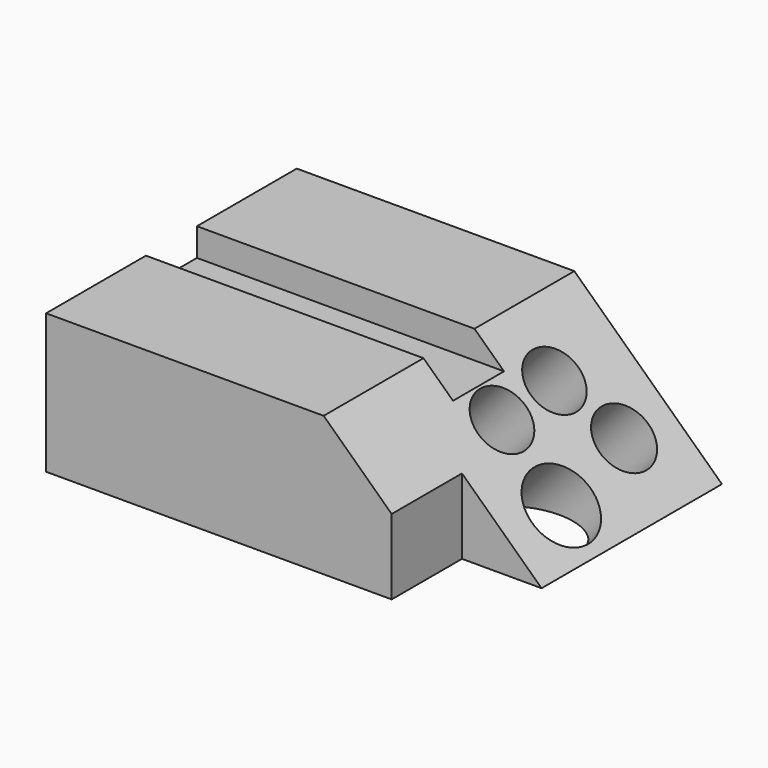
from build123d import *

# Parameters (mm, degrees)
F0_W      = 116.9611811638
F0_H      = 60.1601935923
F1_DEPTH  = 38.1
F3_DEPTH  = 31.75
F4_W      = 8.79971501
F4_H      = 17.4067560583
F4_W_2    = 75.7910068654
F5_DEPTH  = 7.62
F6_DEPTH  = 12.7
F7_DEPTH  = 12.7
F8_W      = 25.9574428201
F8_H      = 27.7897324413
F9_DEPTH  = 25.4
F10_R     = 8.1507716862
F11_DEPTH = 25.4
F12_R     = 8.1743450513
F13_DEPTH = 25.4
F14_R     = 10.0476315022
F15_DEPTH = 25.4
F16_R     = 8.34829694
F17_DEPTH = 25.4


with BuildPart() as f1:
    # F0 (on Top) → F1 (new body)
    with BuildSketch(Plane.XY):
        Rectangle(F0_W, F0_H)
    extrude(amount=F1_DEPTH)

    # F2 (on Front) → F3 (cut, symmetric)
    with BuildSketch(Plane.XZ):
        Polygon((13.2841020823, 43.822273612), (14.8110100999, 40.4630750418), (65.1989877224, -7.1764695458), (65.1989877224, 43.822273612), align=None)
    extrude(amount=F3_DEPTH, both=True, mode=Mode.SUBTRACT)

    # F4 (on face) → F5 (cut)
    with BuildSketch(Plane.XY.offset(38.1)):
        with Locations((21.7102737885, 0)):
            Rectangle(F4_W, F4_H)
        with Locations((-20.5850871492, 0)):
            Rectangle(F4_W_2, F4_H)
    extrude(amount=-F5_DEPTH, mode=Mode.SUBTRACT)

    # F6 (add): a face of the model
    f6_faces = [f1.faces().sort_by_distance(p)[0] for p in [
        (-9.8052950563, -30.0800967962, 17.7163922315),
    ]]
    extrude(f6_faces, amount=F6_DEPTH)

    # F7 (add): a face of the model
    f7_faces = [f1.faces().sort_by_distance(p)[0] for p in [
        (-9.8052950563, 30.0800967962, 17.7163922315),
    ]]
    extrude(f7_faces, amount=F7_DEPTH)

    # F8 (on Top) → F9 (cut)
    with BuildSketch(Plane.XY):
        with Locations((48.8610677421, -32.6758408919)):
            Rectangle(F8_W, F8_H)
    extrude(amount=F9_DEPTH, mode=Mode.SUBTRACT)

    # F10 (on face) → F11 (cut)
    with BuildSketch(Plane(origin=(27.1903243303, 0, 28.7589956151), x_dir=(0.7266466393, 0, -0.6870113985), z_dir=(0.6870113985, 0, 0.7266466393))):
        with Locations((4.6751173213, 19.3886086345)):
            Circle(F10_R)
    extrude(amount=-F11_DEPTH, mode=Mode.SUBTRACT)

    # F12 (on face) → F13 (cut)
    with BuildSketch(Plane(origin=(27.1903243303, 0, 28.7589956151), x_dir=(0.7266466393, 0, -0.6870113985), z_dir=(0.6870113985, 0, 0.7266466393))):
        with Locations((6.3146823086, 0)):
            Circle(F12_R)
    extrude(amount=-F13_DEPTH, mode=Mode.SUBTRACT)

    # F14 (on face) → F15 (cut)
    with BuildSketch(Plane(origin=(27.1903243303, 0, 28.7589956151), x_dir=(0.7266466393, 0, -0.6870113985), z_dir=(0.6870113985, 0, 0.7266466393))):
        with Locations((28.6077186465, 0)):
            Circle(F14_R)
    extrude(amount=-F15_DEPTH, mode=Mode.SUBTRACT)

    # F16 (on face) → F17 (cut)
    with BuildSketch(Plane(origin=(27.1903243303, 0, 28.7589956151), x_dir=(0.7266466393, 0, -0.6870113985), z_dir=(0.6870113985, 0, 0.7266466393))):
        with Locations((22.8316728026, 26.6705863178)):
            Circle(F16_R)
    extrude(amount=-F17_DEPTH, mode=Mode.SUBTRACT)


solid = f1.part
